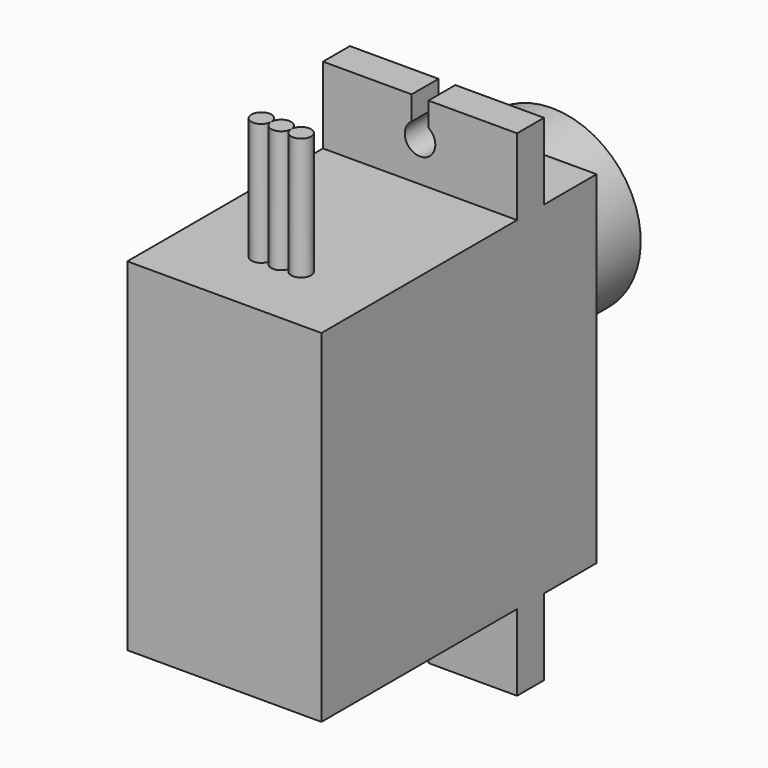
from build123d import *

# Parameters (mm, degrees)
CYLINDER027_R             = 0.65
CYLINDER027_DEPTH         = 10
CYLINDER028_R             = 0.65
CYLINDER028_DEPTH         = 10
CYLINDER029_R             = 0.65
CYLINDER029_DEPTH         = 10
CYLINDER030_R             = 1
CYLINDER030_DEPTH         = 10
BOX026_W                  = 10
BOX026_H                  = 1.1
BOX026_DEPTH              = 10
CYLINDER031_R             = 1
CYLINDER031_DEPTH         = 10
BOX027_W                  = 10
BOX027_H                  = 1.1
BOX027_DEPTH              = 10
FUSION028_PLACEMENT_ANGLE = 180
BOX025_W                  = 5
BOX025_H                  = 12.7
BOX025_DEPTH              = 4.3
BOX024_W                  = 5
BOX024_H                  = 12.7
BOX024_DEPTH              = 4.3
BOX023_W                  = 5
BOX023_H                  = 12.7
BOX023_DEPTH              = 16
BOX022_W                  = 5
BOX022_H                  = 12.7
BOX022_DEPTH              = 16
BOX021_W                  = 32.4
BOX021_H                  = 12.7
BOX021_DEPTH              = 22.5
CYLINDER026_R             = 2.3
CYLINDER026_DEPTH         = 29.4
CYLINDER025_R             = 2.5
CYLINDER025_DEPTH         = 26.8
CYLINDER024_R             = 5.8
CYLINDER024_DEPTH         = 26.8
FUSION034_PITCH_ANGLE     = 90
FUSION034_PLACEMENT_ANGLE = 90


with BuildPart() as obj1:
    # Cylinder027 → Cylinder027 (new body)
    with BuildSketch(Plane.ZY):
        Circle(CYLINDER027_R)
    extrude(amount=CYLINDER027_DEPTH)


with BuildPart() as obj2:
    # Cylinder028 → Cylinder028 (new body)
    with BuildSketch(Plane(origin=(0, 1.3, 0), x_dir=(0, 0, 1), z_dir=(-1, 0, 0))):
        Circle(CYLINDER028_R)
    extrude(amount=CYLINDER028_DEPTH)


with BuildPart() as cables003:
    # Cylinder029 → Cylinder029 (new body)
    with BuildSketch(Plane(origin=(0, -1.3, 0), x_dir=(0, 0, 1), z_dir=(-1, 0, 0))):
        Circle(CYLINDER029_R)
    extrude(amount=CYLINDER029_DEPTH)

    # Fusion032: union obj1, obj2
    add(obj1.part)
    add(obj2.part)


with BuildPart() as cables003_1:
    # Fusion032 placement: moved
    add(cables003.part.moved(Location((7, 6.35, 4.65))))


with BuildPart() as zylinder006:
    # Cylinder030 → Cylinder030 (new body)
    with BuildSketch(Plane.XY):
        Circle(CYLINDER030_R)
    extrude(amount=CYLINDER030_DEPTH)


with BuildPart() as obj3:
    # Box026 → Box026 (new body)
    with BuildSketch(Plane(origin=(-10, -0.55, 0), x_dir=(1, 0, 0), z_dir=(0, 0, 1))):
        with Locations((5, 0.55)):
            Rectangle(BOX026_W, BOX026_H)
    extrude(amount=BOX026_DEPTH)

    # Fusion029: union Zylinder006
    add(zylinder006.part)


with BuildPart() as obj3_1:
    # Fusion029 placement: moved
    add(obj3.part.moved(Location((2.4, 0, 0))))


with BuildPart() as zylinder007:
    # Cylinder031 → Cylinder031 (new body)
    with BuildSketch(Plane.XY):
        Circle(CYLINDER031_R)
    extrude(amount=CYLINDER031_DEPTH)


with BuildPart() as drillslots003:
    # Box027 → Box027 (new body)
    with BuildSketch(Plane(origin=(-10, -0.55, 0), x_dir=(1, 0, 0), z_dir=(0, 0, 1))):
        with Locations((5, 0.55)):
            Rectangle(BOX027_W, BOX027_H)
    extrude(amount=BOX027_DEPTH)

    # Fusion028: union Zylinder007
    add(zylinder007.part)


with BuildPart() as drillslots003_1:
    # Fusion028 placement: moved
    add(drillslots003.part.moved(Location((30, 0, 0))).rotate(Axis((30, 0, 0), (0, 0, 1)), FUSION028_PLACEMENT_ANGLE))

    # Fusion033: union obj3
    add(obj3_1.part)


with BuildPart() as drillslots003_2:
    # Fusion033 placement: moved
    add(drillslots003_1.part.moved(Location((0, 6.35, 13))))


with BuildPart() as obj4:
    # Box025 → Box025 (new body)
    with BuildSketch(Plane(origin=(27.4, 0, 0), x_dir=(1, 0, 0), z_dir=(0, 0, 1))):
        with Locations((2.5, 6.35)):
            Rectangle(BOX025_W, BOX025_H)
    extrude(amount=BOX025_DEPTH)


with BuildPart() as uppercuts003:
    # Box024 → Box024 (new body)
    with BuildSketch(Plane.XY):
        with Locations((2.5, 6.35)):
            Rectangle(BOX024_W, BOX024_H)
    extrude(amount=BOX024_DEPTH)

    # Fusion031: union obj4
    add(obj4.part)


with BuildPart() as uppercuts003_1:
    # Fusion031 placement: moved
    add(uppercuts003.part.moved(Location((0, 0, 18.2))))


with BuildPart() as obj5:
    # Box023 → Box023 (new body)
    with BuildSketch(Plane.XY):
        with Locations((2.5, 6.35)):
            Rectangle(BOX023_W, BOX023_H)
    extrude(amount=BOX023_DEPTH)


with BuildPart() as obj6:
    # Box022 → Box022 (new body)
    with BuildSketch(Plane(origin=(27.4, 0, 0), x_dir=(1, 0, 0), z_dir=(0, 0, 1))):
        with Locations((2.5, 6.35)):
            Rectangle(BOX022_W, BOX022_H)
    extrude(amount=BOX022_DEPTH)


with BuildPart() as cutbody003:
    # Box021 → Box021 (new body)
    with BuildSketch(Plane.XY):
        with Locations((16.2, 6.35)):
            Rectangle(BOX021_W, BOX021_H)
    extrude(amount=BOX021_DEPTH)

    # Cut012: cut obj6
    add(obj6.part, mode=Mode.SUBTRACT)

    # Cut013: cut obj5
    add(obj5.part, mode=Mode.SUBTRACT)

    # Cut014: cut UpperCuts003
    add(uppercuts003_1.part, mode=Mode.SUBTRACT)

    # Cut015: cut DrillSlots003
    add(drillslots003_2.part, mode=Mode.SUBTRACT)


with BuildPart() as axis003:
    # Cylinder026 → Cylinder026 (new body)
    with BuildSketch(Plane(origin=(10.8, 6.35, 0), x_dir=(1, 0, 0), z_dir=(0, 0, 1))):
        Circle(CYLINDER026_R)
    extrude(amount=CYLINDER026_DEPTH)


with BuildPart() as sideaxis003:
    # Cylinder025 → Cylinder025 (new body)
    with BuildSketch(Plane(origin=(17, 6.35, 0), x_dir=(1, 0, 0), z_dir=(0, 0, 1))):
        Circle(CYLINDER025_R)
    extrude(amount=CYLINDER025_DEPTH)


with BuildPart() as obj7:
    # Cylinder024 → Cylinder024 (new body)
    with BuildSketch(Plane(origin=(10.8, 6.35, 0), x_dir=(1, 0, 0), z_dir=(0, 0, 1))):
        Circle(CYLINDER024_R)
    extrude(amount=CYLINDER024_DEPTH)

    # Fusion030: union SideAxis003
    add(sideaxis003.part)

    # Fusion027: union Axis003
    add(axis003.part)

    # Fusion034: union Cables003, CutBody003
    add(cables003_1.part)
    add(cutbody003.part)


with BuildPart() as obj7_1:
    # Fusion034 pitch: moved
    add(obj7.part.rotate(Axis((0, 0, 0), (0, 1, 0)), FUSION034_PITCH_ANGLE))


with BuildPart() as obj7_2:
    # Fusion034 placement: moved
    add(obj7_1.part.moved(Location((6.3, -128.5, -71))).rotate(Axis((6.3, -128.5, -71), (0, 0, 1)), FUSION034_PLACEMENT_ANGLE))


solid = obj7_2.part
